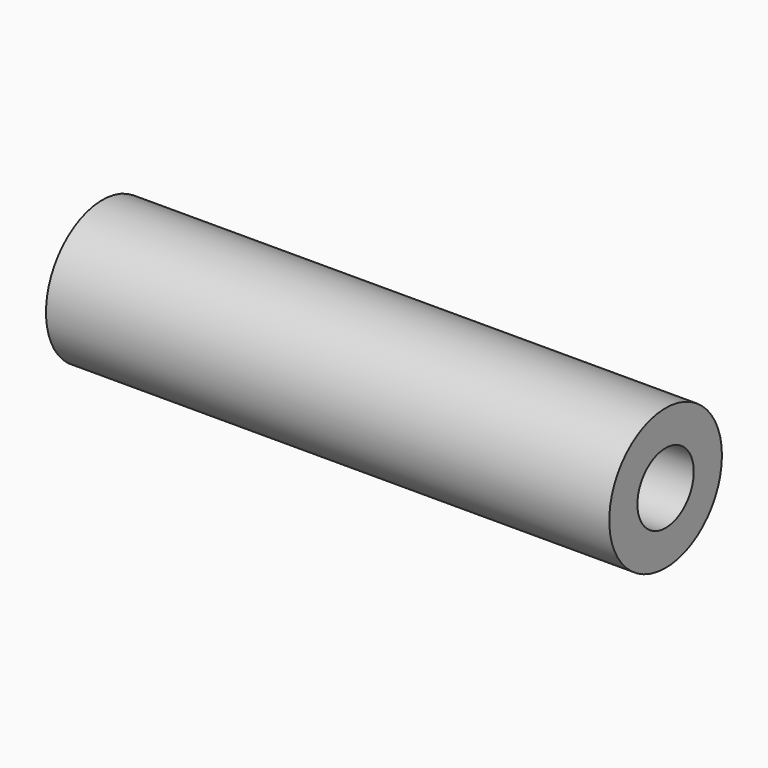
from build123d import *

# Parameters (mm, degrees)
F0_R     = 5
F1_DEPTH = 40
F3_D     = 5


with BuildPart() as f1:
    # F0 (on Right) → F1 (new body)
    with BuildSketch(Plane.YZ):
        Circle(F0_R)
    extrude(amount=-F1_DEPTH)

    # F3 (through all)
    with Locations(Plane.YZ):
        with Locations((0, 0)):
            Hole(F3_D / 2)


solid = f1.part
